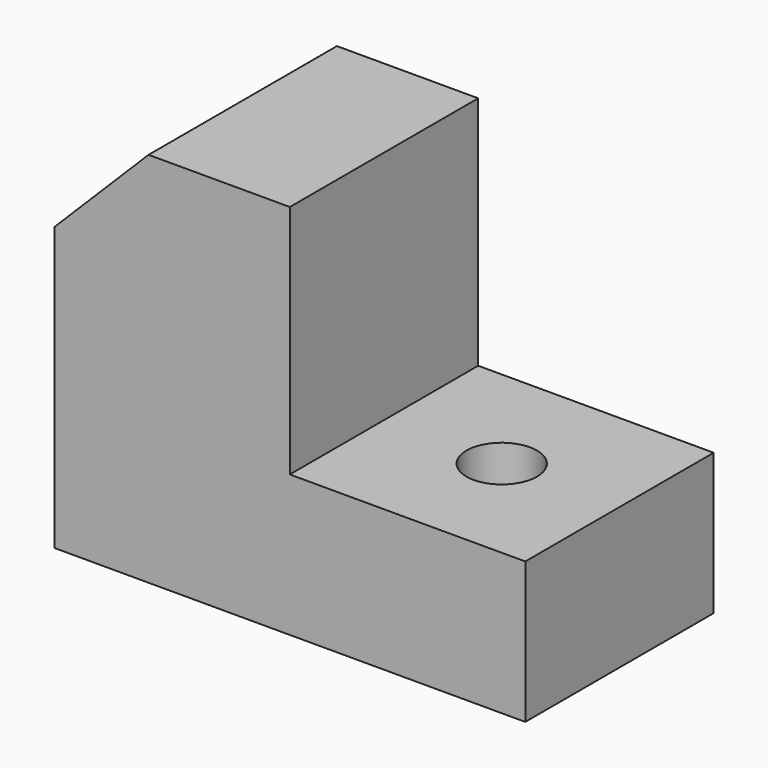
from build123d import *

# Parameters (mm, degrees)
F0_W     = 100
F0_H     = 50
F1_DEPTH = 30
F3_W     = 50
F3_H     = 50
F4_DEPTH = 50
F6_DEPTH = 50
F7_R     = 7.5
F8_DEPTH = 30.001


with BuildPart() as f1:
    # F0 (on Top) → F1 (new body)
    with BuildSketch(Plane.XY):
        with Locations((50, 25)):
            Rectangle(F0_W, F0_H)
    extrude(amount=F1_DEPTH)

    # F3 (on face) → F4 (join, through all)
    with BuildSketch(Plane.XY.offset(30)):
        with Locations((25, 25)):
            Rectangle(F3_W, F3_H)
    extrude(amount=F4_DEPTH)

    # F5 (on face) → F6 (cut, through all)
    with BuildSketch(Plane.XZ):
        Polygon((20, 80), (0, 80), (0, 60), align=None)
    extrude(amount=-F6_DEPTH, mode=Mode.SUBTRACT)

    # F7 (on face) → F8 (cut, through all)
    with BuildSketch(Plane.XY.offset(30)):
        with Locations((75, 25)):
            Circle(F7_R)
    extrude(amount=-F8_DEPTH, mode=Mode.SUBTRACT)


solid = f1.part
